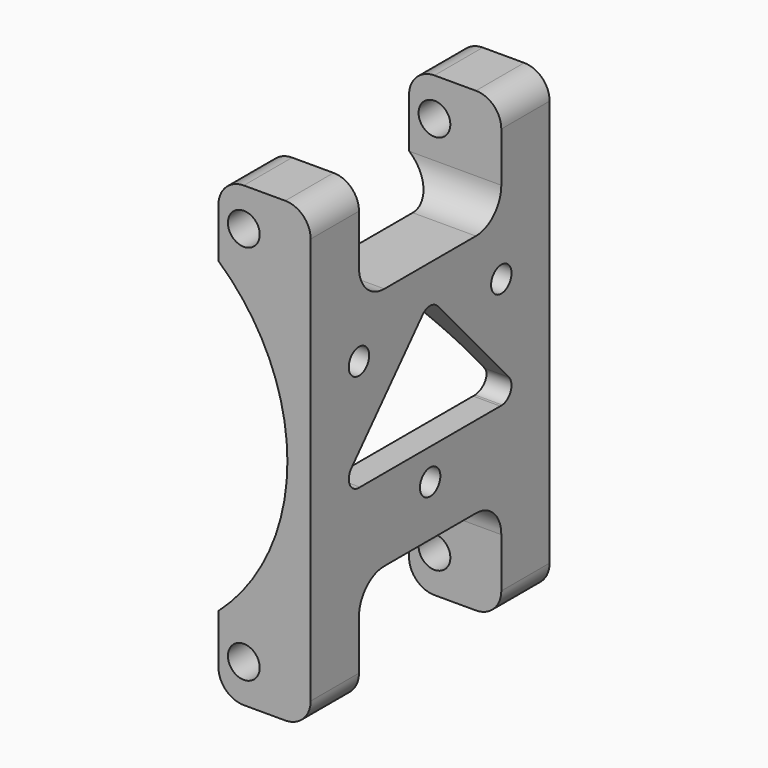
from build123d import *

# Parameters (mm, degrees)
F0_R     = 3.175
F1_DEPTH = 59.69
F2_R     = 5.08
F3_R     = 2.5527
F4_DEPTH = 18.4414
F5_R     = 5.08


with BuildPart() as f1:
    # F0 (on Front) → F1 (new body)
    with BuildSketch(Plane.XZ):
        with BuildLine():
            Line((0, 14.925174), (0, 0))
            Line((0, 0), (18.4404, 0))
            Line((18.4404, 0), (18.4404, 91.44))
            Line((18.4404, 91.44), (0, 91.44))
            Line((0, 91.44), (0, 76.514826))
            ThreePointArc((0, 76.514826), (13.7922, 45.72), (0, 14.925174))
        make_face()
        with Locations((5.08, 7.62)):
            Circle(F0_R, mode=Mode.SUBTRACT)
        with Locations((5.08, 83.82)):
            Circle(F0_R, mode=Mode.SUBTRACT)
    extrude(amount=F1_DEPTH)

    # F2
    f2_edges = [f1.edges().sort_by_distance(p)[0] for p in [
        (0, -29.845, 91.44),
        (0, -29.845, 0),
    ]]
    fillet(f2_edges, radius=F2_R)

    # F3 (on face) → F4 (cut, through all)
    with BuildSketch(Plane.YZ.offset(18.4404)):
        with Locations((-47.625, 59.944)):
            Circle(F3_R)
        with Locations((-12.065, 59.944)):
            Circle(F3_R)
        with Locations((-29.845, 31.496)):
            Circle(F3_R)
        with BuildLine():
            Line((-12.065, 91.44), (-47.625, 91.44))
            Line((-47.625, 91.44), (-47.625, 76.454))
            ThreePointArc((-47.625, 76.454), (-45.765128, 71.963872), (-41.275, 70.104))
            Line((-41.275, 70.104), (-18.415, 70.104))
            ThreePointArc((-18.415, 70.104), (-13.924872, 71.963872), (-12.065, 76.454))
            Line((-12.065, 76.454), (-12.065, 91.44))
        make_face()
        with BuildLine():
            Line((-47.625, 14.986), (-47.625, 0))
            Line((-47.625, 0), (-12.065, 0))
            Line((-12.065, 0), (-12.065, 14.986))
            ThreePointArc((-12.065, 14.986), (-13.924872, 19.476128), (-18.415, 21.336))
            Line((-18.415, 21.336), (-41.275, 21.336))
            ThreePointArc((-41.275, 21.336), (-45.765128, 19.476128), (-47.625, 14.986))
        make_face()
        with BuildLine():
            Line((-10.178521, 41.924013), (-27.958521, 61.644822))
            ThreePointArc((-27.958521, 61.644822), (-29.845, 62.484), (-31.731479, 61.644822))
            Line((-31.731479, 61.644822), (-49.511479, 41.924013))
            ThreePointArc((-49.511479, 41.924013), (-49.891828, 39.07729), (-47.373991, 37.695624))
            Line((-47.373991, 37.695624), (-12.316009, 37.695624))
            Line((-12.316009, 37.695624), (-11.813991, 37.695624))
            ThreePointArc((-11.813991, 37.695624), (-9.696027, 39.306912), (-10.178521, 41.924013))
        make_face()
        with BuildLine():
            ThreePointArc((-12.316009, 37.695624), (-12.065, 37.683191), (-11.813991, 37.695624))
            Line((-11.813991, 37.695624), (-12.316009, 37.695624))
        make_face()
    extrude(amount=-F4_DEPTH, mode=Mode.SUBTRACT)

    # F5
    f5_edges = [f1.edges().sort_by_distance(p)[0] for p in [
        (18.4404, -53.6575, 91.44),
        (18.4404, -6.0325, 91.44),
        (18.4404, -53.6575, 0),
        (18.4404, -6.0325, 0),
    ]]
    fillet(f5_edges, radius=F5_R)


solid = f1.part
